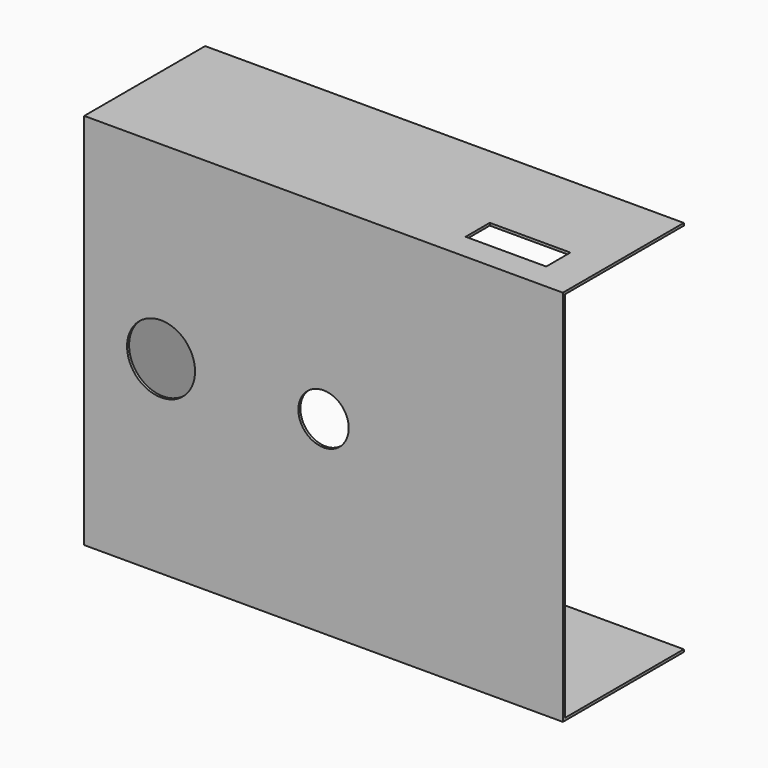
from build123d import *

# Parameters (mm, degrees)
F0_W     = 48.26
F0_H     = 38.1
F1_DEPTH = 15.24
F3_T     = -0.254
F4_D     = 6.858
F6_D     = 5.08
F7_W     = 8.128
F7_H     = 3.048
F8_DEPTH = 25.4


with BuildPart() as f1:
    # F0 (on Front) → F1 (new body)
    with BuildSketch(Plane.XZ):
        Rectangle(F0_W, F0_H)
    extrude(amount=F1_DEPTH)

    # F3
    f3_openings = [f1.faces().sort_by_distance(p)[0] for p in [
        (0, 0, 0),
        (24.13, -7.62, 0),
    ]]
    offset(amount=F3_T, openings=f3_openings)

    # F4 (through all)
    with Locations(Plane.XZ.offset(15.24)):
        with Locations((-16.383, 0)):
            Hole(F4_D / 2)

    # F6 (through all)
    with Locations(Plane.XZ.offset(15.24)):
        with Locations((0, 0)):
            Hole(F6_D / 2)

    # F7 (on face) → F8 (cut)
    with BuildSketch(Plane.XY.offset(19.05)):
        with Locations((16.256, -11.051697)):
            Rectangle(F7_W, F7_H)
    extrude(amount=-F8_DEPTH, mode=Mode.SUBTRACT)


solid = f1.part
